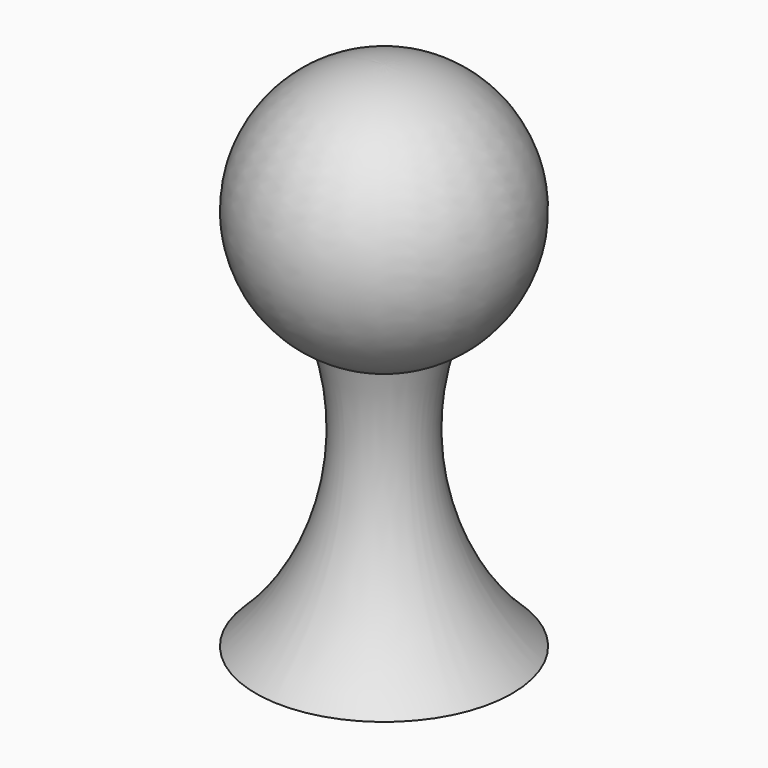
from build123d import *


with BuildPart() as f1:
    # F0 (on Front) → F1 (revolve)
    with BuildSketch(Plane.XZ):
        with BuildLine():
            Line((-10.147563, 0), (0, 0))
            Line((0, 0), (0, 20.2562))
            ThreePointArc((0, 20.2562), (-2.290263, 20.518143), (-4.462238, 21.290442))
            ThreePointArc((-4.462238, 21.290442), (-4.255013, 9.83079), (-10.147563, 0))
        make_face()
        with BuildLine():
            ThreePointArc((-4.462238, 21.290442), (-2.290263, 20.518143), (0, 20.2562))
            Line((0, 20.2562), (0, 40.542769))
            ThreePointArc((0, 40.542769), (-9.881341, 32.689748), (-4.462238, 21.290442))
        make_face()
    revolve(axis=Axis((0, 0, 20.271384), (0, 0, -1)))


solid = f1.part
